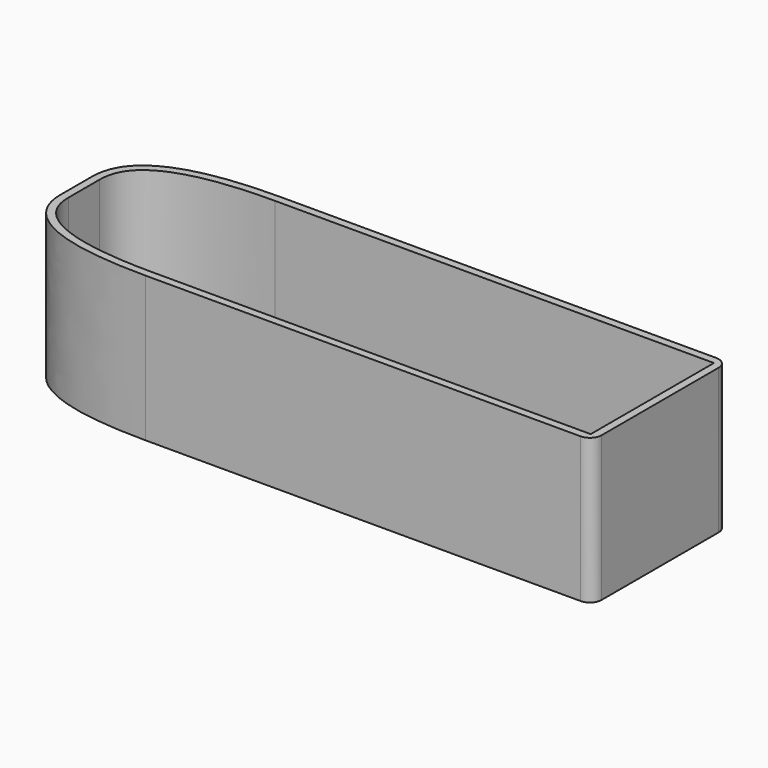
from build123d import *

# Parameters (mm, degrees)
PAD_DEPTH   = 37
THICKNESS_T = -2
SKETCH002_R = 3
HOLE_DEPTH  = 25
HOLE_TIPS_R = 3
FILLET_R    = 3


with BuildPart() as part:
    # Sketch001 → Pad (new body)
    with BuildSketch(Plane.XY):
        with BuildLine():
            Line((-58, 21.65), (56, 21.65))
            Line((56, 21.65), (56, -21.65))
            Line((56, -21.65), (-58, -21.65))
            add(Edge.make_bspline(
                [(-58, -21.65), (-93, -21.65), (-93, -5)],
                knots=[0, 0, 0, 1, 1, 1], degree=2))
            Line((-93, -5), (-93, 5))
            add(Edge.make_bspline(
                [(-58, 21.65), (-93, 21.65), (-93, 5)],
                knots=[0, 0, 0, 1, 1, 1], degree=2))
        make_face()
    extrude(amount=PAD_DEPTH)

    # Thickness
    thickness_openings = [part.faces().sort_by_distance(p)[0] for p in [
        (-16.404598, 0, 37),
        (-16.404598, 0, 0),
    ]]
    offset(amount=THICKNESS_T, openings=thickness_openings)

    # Sketch002 (on Face5 of Thickness) → Hole (cut)
    with BuildSketch(Plane(origin=(-93, 0, 0), x_dir=(0, -1, 0), z_dir=(-1, 0, 0))):
        with Locations((0, 20)):
            Circle(SKETCH002_R)
    extrude(amount=-HOLE_DEPTH, mode=Mode.SUBTRACT)

    # Hole tips → Hole tip 1 section 0
    with BuildSketch(Plane(origin=(-68, 0, 0), x_dir=(0, -1, 0), z_dir=(-1, 0, 0)), mode=Mode.PRIVATE) as hole_tip_1_s0:
        with Locations((0, 20)):
            Circle(HOLE_TIPS_R)
    loft([hole_tip_1_s0.sketch, Vertex(-66.197418, 0, 20)], mode=Mode.SUBTRACT)

    # Fillet
    fillet_edges = [part.edges().sort_by_distance(p)[0] for p in [
        (56, 21.65, 18.5),
        (56, -21.65, 18.5),
    ]]
    fillet(fillet_edges, radius=FILLET_R)


solid = part.part
